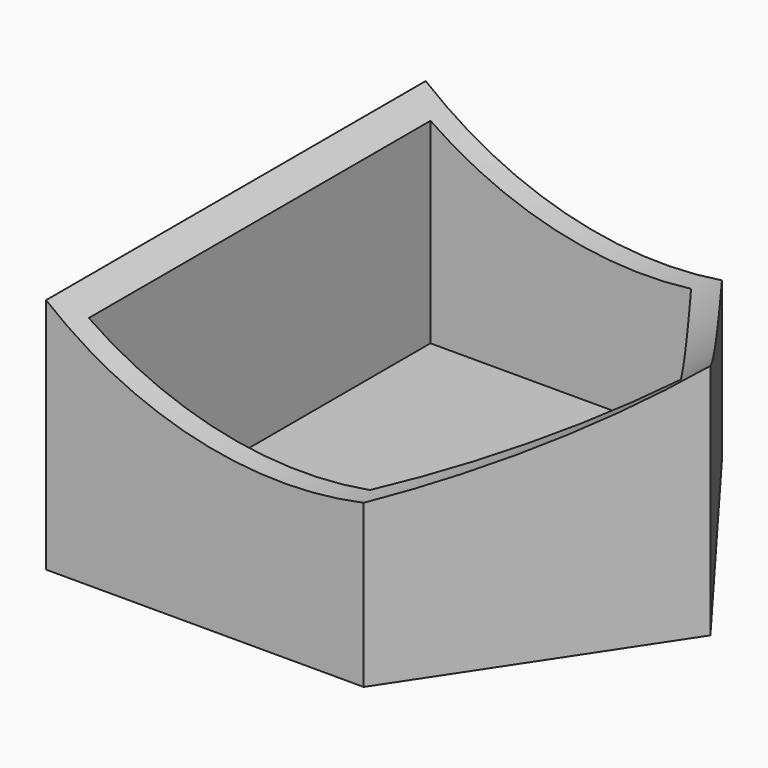
from build123d import *

# Parameters (mm, degrees)
F1_DEPTH = 50.8
F3_DEPTH = 46.571707
F4_T     = -2.54


with BuildPart() as f1:
    # F0 (on Front) → F1 (new body)
    with BuildSketch(Plane.XZ):
        with BuildLine():
            Line((-31.713647, -21.170707), (-31.713647, -46.570707))
            Line((-31.713647, -46.570707), (19.086353, -46.570707))
            Line((19.086353, -46.570707), (19.086353, -21.170707))
            ThreePointArc((19.086353, -21.170707), (-6.313647, -30.139476), (-31.713647, -21.170707))
        make_face()
    extrude(amount=F1_DEPTH)

    # F2 (on Top) → F3 (cut, through all)
    with BuildSketch(Plane.XY):
        Polygon((19.086353, -50.8), (19.086353, -25.4), (2.290366, -50.8), align=None)
        Polygon((19.086353, -25.4), (19.086353, 0), (0, 0), align=None)
    extrude(amount=-F3_DEPTH, mode=Mode.SUBTRACT)

    # F4
    f4_openings = [f1.faces().sort_by_distance(p)[0] for p in [
        (-6.313647, -25.4, -30.139476),
    ]]
    offset(amount=F4_T, openings=f4_openings)


solid = f1.part
